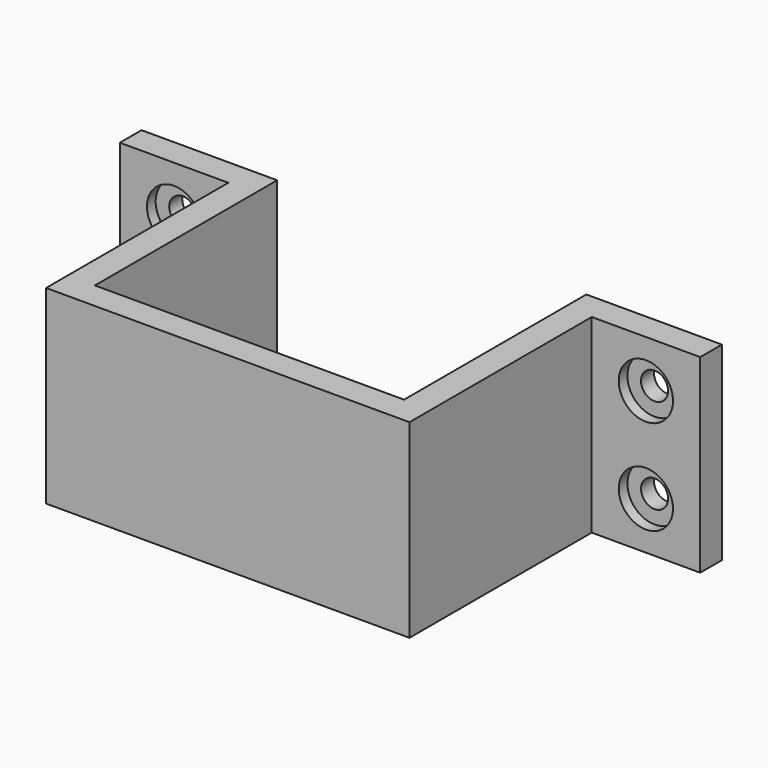
from build123d import *

# Parameters (mm, degrees)
F0_W           = 20
F0_H           = 5
F1_DEPTH       = 35
F3_D           = 5
F3_DEPTH       = 5
F3_CBORE_D     = 10
F3_CBORE_DEPTH = 2


with BuildPart() as f1:
    # F0 (on Top) → F1 (new body)
    with BuildSketch(Plane.XY):
        with Locations((-10, 2.5)):
            Rectangle(F0_W, F0_H)
        Polygon((0, 5), (0, 0), (0, -37), (5, -37), (5, 5), align=None)
        Polygon((5, -37), (0, -37), (0, -42), (67, -42), (67, -37), (62, -37), align=None)
        Polygon((62, 5), (62, -37), (67, -37), (67, 0), (67, 5), align=None)
        with Locations((77, 2.5)):
            Rectangle(F0_W, F0_H)
    extrude(amount=F1_DEPTH)

    # F3
    with Locations(Plane.XZ):
        with Locations((-10, 26.25), (-10, 8.75), (76.978274, 8.75), (76.978274, 26.25)):
            CounterBoreHole(F3_D / 2, F3_CBORE_D / 2, F3_CBORE_DEPTH, depth=F3_DEPTH)


solid = f1.part
